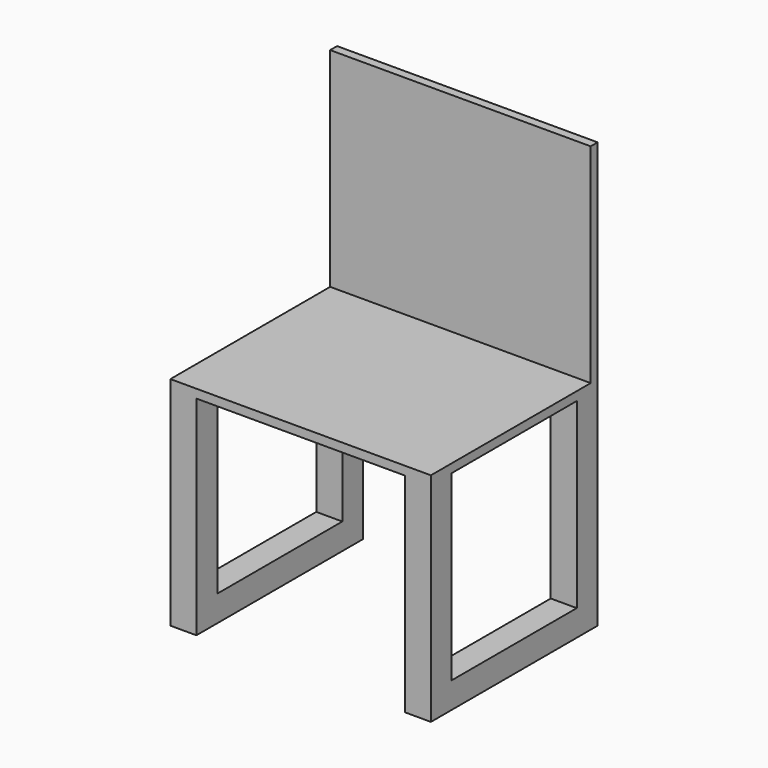
from build123d import *

# Parameters (mm, degrees)
F0_W     = 1524
F0_H     = 1219.2
F1_DEPTH = 50.8
F2_W     = 1524
F2_H     = 1219.2
F3_DEPTH = 50.8
F4_W     = 152.4
F4_H     = 152.4
F5_DEPTH = 1219.2
F6_W     = 152.4
F6_H     = 152.4
F7_DEPTH = 914.4
F8_W     = 152.4
F8_H     = 152.4
F9_DEPTH = 914.4


with BuildPart() as f1:
    # F0 (on Front) → F1 (new body)
    with BuildSketch(Plane.XZ):
        with Locations((762, 609.6)):
            Rectangle(F0_W, F0_H)
    extrude(amount=F1_DEPTH)

    # F2 (on face) → F3 (join)
    with BuildSketch(Plane(origin=(0, 0, 0), x_dir=(1, 0, 0), z_dir=(0, 0, -1))):
        with Locations((762, 609.6)):
            Rectangle(F2_W, F2_H)
    extrude(amount=F3_DEPTH)

    # F4 (on face) → F5 (join)
    with BuildSketch(Plane(origin=(0, 0, -50.8), x_dir=(1, 0, 0), z_dir=(0, 0, -1))):
        with Locations((76.2, 1143)):
            Rectangle(F4_W, F4_H)
        with Locations((1447.8, 1143)):
            Rectangle(F4_W, F4_H)
        with Locations((1447.8, 76.2)):
            Rectangle(F4_W, F4_H)
        with Locations((76.2, 76.2)):
            Rectangle(F4_W, F4_H)
    extrude(amount=F5_DEPTH)

    # F6 (on face) → F7 (join, through all)
    with BuildSketch(Plane.XZ.offset(152.4)):
        with Locations((1447.8, -1193.8)):
            Rectangle(F6_W, F6_H)
    extrude(amount=F7_DEPTH)

    # F8 (on face) → F9 (join, through all)
    with BuildSketch(Plane.XZ.offset(152.4)):
        with Locations((76.2, -1193.8)):
            Rectangle(F8_W, F8_H)
    extrude(amount=F9_DEPTH)


solid = f1.part
